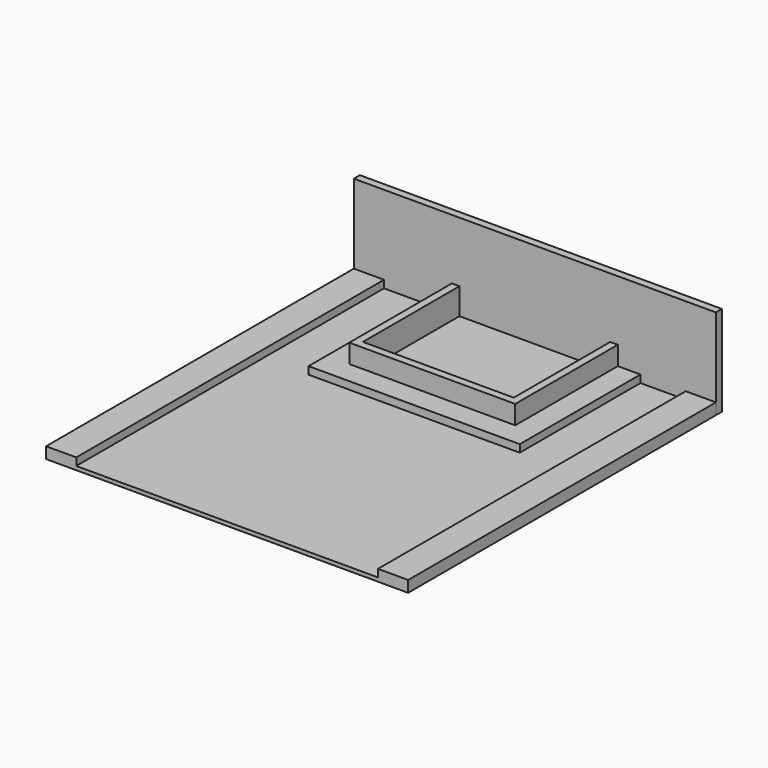
from build123d import *

# Parameters (mm, degrees)
F0_W     = 127
F0_H     = 101.6
F1_DEPTH = 3.175
F0_W_2   = 25.4
F0_H_2   = 323.85
F2_DEPTH = 9.525
F3_DEPTH = 25.4
F4_DEPTH = 76.2


with BuildPart() as f1:
    # F0 (on Top) → F1 (new body)
    with BuildSketch(Plane.XY):
        Polygon((127, -165.1), (127, 158.75), (88.9, 158.75), (88.9, 31.75), (-88.9, 31.75), (-88.9, 158.75), (-127, 158.75), (-127, -165.1), align=None)
        with Locations((0, 107.95)):
            Rectangle(F0_W, F0_H)
    extrude(amount=F1_DEPTH)

    # F0 (on Top) → F2 (join)
    with BuildSketch(Plane.XY):
        with Locations((139.7, -3.175)):
            Rectangle(F0_W_2, F0_H_2)
        Polygon((88.9, 31.75), (88.9, 158.75), (69.85, 158.75), (69.85, 50.8), align=None)
        Polygon((-88.9, 31.75), (88.9, 31.75), (69.85, 50.8), (-69.85, 50.8), align=None)
        Polygon((-69.85, 158.75), (-88.9, 158.75), (-88.9, 31.75), (-69.85, 50.8), align=None)
        with Locations((-139.7, -3.175)):
            Rectangle(F0_W_2, F0_H_2)
    extrude(amount=F2_DEPTH)


with BuildPart() as f3:
    # F0 (on Top) → F3 (new body)
    with BuildSketch(Plane.XY):
        Polygon((-63.5, 158.75), (-69.85, 158.75), (-69.85, 50.8), (-63.5, 57.15), align=None)
        Polygon((-69.85, 50.8), (69.85, 50.8), (63.5, 57.15), (-63.5, 57.15), align=None)
        Polygon((69.85, 50.8), (69.85, 158.75), (63.5, 158.75), (63.5, 57.15), align=None)
    extrude(amount=F3_DEPTH)


with BuildPart() as f4:
    # F0 (on Top) → F4 (new body)
    with BuildSketch(Plane.XY):
        Polygon((152.4, 158.75), (152.4, 165.1), (-152.4, 165.1), (-152.4, 158.75), (-127, 158.75), (-88.9, 158.75), (-69.85, 158.75), (-63.5, 158.75), (63.5, 158.75), (69.85, 158.75), (88.9, 158.75), (127, 158.75), align=None)
    extrude(amount=F4_DEPTH)


solid = Compound([f1.part, f3.part, f4.part])
